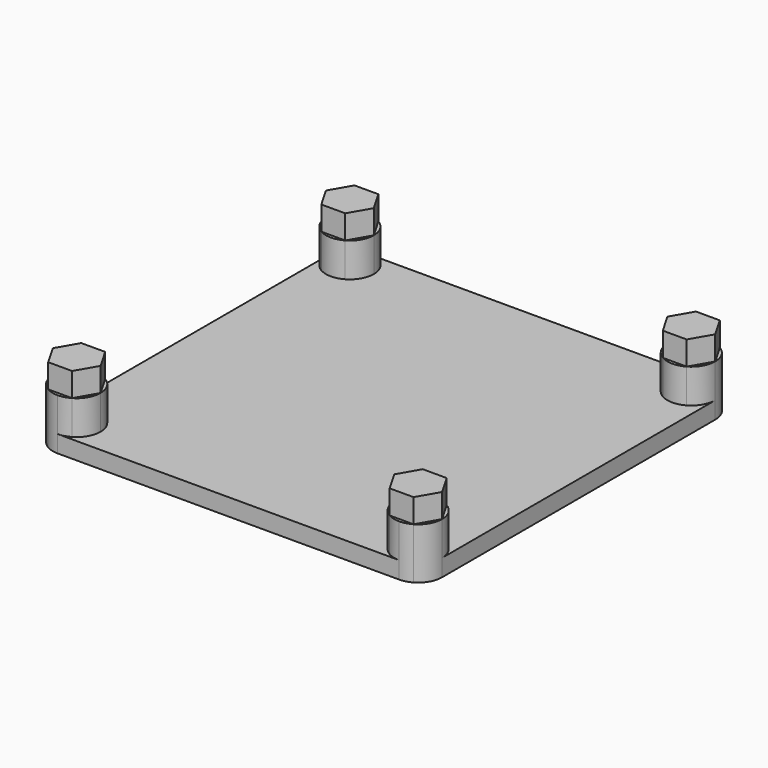
from build123d import *

# Parameters (mm, degrees)
F1_DEPTH = 5
F2_DEPTH = 15
F3_DEPTH = 22


with BuildPart() as f1:
    # F0 (on Top) → F1 (new body)
    with BuildSketch(Plane.XY):
        with BuildLine():
            ThreePointArc((-49.4411764706, 56.0621778265), (-46.8789986441, 53.5), (-45.9411764706, 50))
            ThreePointArc((-45.9411764706, 50), (-46.8789986441, 46.5), (-49.4411764706, 43.9378221735))
            ThreePointArc((-49.4411764706, 43.9378221735), (-52.9411764706, 43), (-56.4411764706, 43.9378221735))
            ThreePointArc((-56.4411764706, 43.9378221735), (-59.0033542971, 46.5), (-59.9411764706, 50))
            Line((-59.9411764706, 50), (-59.9411764706, -50))
            ThreePointArc((-59.9411764706, -50), (-59.0033542971, -46.5), (-56.4411764706, -43.9378221735))
            ThreePointArc((-56.4411764706, -43.9378221735), (-52.9411764706, -43), (-49.4411764706, -43.9378221735))
            ThreePointArc((-49.4411764706, -43.9378221735), (-46.8789986441, -46.5), (-45.9411764706, -50))
            ThreePointArc((-45.9411764706, -50), (-46.8789986441, -53.5), (-49.4411764706, -56.0621778265))
            ThreePointArc((-49.4411764706, -56.0621778265), (-51.1294431549, -56.761480784), (-52.9411764706, -57))
            Line((-52.9411764706, -57), (47.0588235294, -57))
            ThreePointArc((47.0588235294, -57), (45.2470902137, -56.761480784), (43.5588235294, -56.0621778265))
            ThreePointArc((43.5588235294, -56.0621778265), (40.9966457029, -53.5), (40.0588235294, -50))
            ThreePointArc((40.0588235294, -50), (40.9966457029, -46.5), (43.5588235294, -43.9378221735))
            ThreePointArc((43.5588235294, -43.9378221735), (47.0588235294, -43), (50.5588235294, -43.9378221735))
            ThreePointArc((50.5588235294, -43.9378221735), (53.1210013559, -46.5), (54.0588235294, -50))
            Line((54.0588235294, -50), (54.0588235294, 50))
            ThreePointArc((54.0588235294, 50), (53.1210013559, 46.5), (50.5588235294, 43.9378221735))
            ThreePointArc((50.5588235294, 43.9378221735), (47.0588235294, 43), (43.5588235294, 43.9378221735))
            ThreePointArc((43.5588235294, 43.9378221735), (40.9966457029, 46.5), (40.0588235294, 50))
            ThreePointArc((40.0588235294, 50), (40.9966457029, 53.5), (43.5588235294, 56.0621778265))
            ThreePointArc((43.5588235294, 56.0621778265), (45.2470902137, 56.761480784), (47.0588235294, 57))
            Line((47.0588235294, 57), (-52.9411764706, 57))
            ThreePointArc((-52.9411764706, 57), (-51.1294431549, 56.761480784), (-49.4411764706, 56.0621778265))
        make_face()
    extrude(amount=F1_DEPTH)

    # F0 (on Top) → F2 (join)
    with BuildSketch(Plane.XY):
        Polygon((-49.4411764706, 43.9378221735), (-45.9411764706, 50), (-49.4411764706, 56.0621778265), (-56.4411764706, 56.0621778265), (-59.9411764706, 50), (-56.4411764706, 43.9378221735), align=None)
        Polygon((50.5588235294, -56.0621778265), (54.0588235294, -50), (50.5588235294, -43.9378221735), (43.5588235294, -43.9378221735), (40.0588235294, -50), (43.5588235294, -56.0621778265), align=None)
        Polygon((-56.4411764706, -43.9378221735), (-59.9411764706, -50), (-56.4411764706, -56.0621778265), (-49.4411764706, -56.0621778265), (-45.9411764706, -50), (-49.4411764706, -43.9378221735), align=None)
        with BuildLine():
            ThreePointArc((50.5588235294, -56.0621778265), (53.1210013559, -53.5), (54.0588235294, -50))
            Line((54.0588235294, -50), (50.5588235294, -56.0621778265))
        make_face()
        with BuildLine():
            Line((43.5588235294, -43.9378221735), (50.5588235294, -43.9378221735))
            ThreePointArc((50.5588235294, -43.9378221735), (47.0588235294, -43), (43.5588235294, -43.9378221735))
        make_face()
        with BuildLine():
            Line((40.0588235294, -50), (43.5588235294, -43.9378221735))
            ThreePointArc((43.5588235294, -43.9378221735), (40.9966457029, -46.5), (40.0588235294, -50))
        make_face()
        with BuildLine():
            ThreePointArc((40.0588235294, -50), (40.9966457029, -53.5), (43.5588235294, -56.0621778265))
            Line((43.5588235294, -56.0621778265), (40.0588235294, -50))
        make_face()
        with BuildLine():
            ThreePointArc((-45.9411764706, -50), (-46.8789986441, -46.5), (-49.4411764706, -43.9378221735))
            Line((-49.4411764706, -43.9378221735), (-45.9411764706, -50))
        make_face()
        with BuildLine():
            ThreePointArc((-49.4411764706, -43.9378221735), (-52.9411764706, -43), (-56.4411764706, -43.9378221735))
            Line((-56.4411764706, -43.9378221735), (-49.4411764706, -43.9378221735))
        make_face()
        with BuildLine():
            Line((-45.9411764706, -50), (-49.4411764706, -56.0621778265))
            ThreePointArc((-49.4411764706, -56.0621778265), (-46.8789986441, -53.5), (-45.9411764706, -50))
        make_face()
        with BuildLine():
            ThreePointArc((-56.4411764706, -43.9378221735), (-59.0033542971, -46.5), (-59.9411764706, -50))
            Line((-59.9411764706, -50), (-56.4411764706, -43.9378221735))
        make_face()
        with BuildLine():
            Line((-49.4411764706, -56.0621778265), (-56.4411764706, -56.0621778265))
            ThreePointArc((-56.4411764706, -56.0621778265), (-54.7529097863, -56.761480784), (-52.9411764706, -57))
            ThreePointArc((-52.9411764706, -57), (-51.1294431549, -56.761480784), (-49.4411764706, -56.0621778265))
        make_face()
        with BuildLine():
            Line((-56.4411764706, -56.0621778265), (-59.9411764706, -50))
            ThreePointArc((-59.9411764706, -50), (-59.0033542971, -53.5), (-56.4411764706, -56.0621778265))
        make_face()
        with BuildLine():
            Line((-56.4411764706, 56.0621778265), (-49.4411764706, 56.0621778265))
            ThreePointArc((-49.4411764706, 56.0621778265), (-51.1294431549, 56.761480784), (-52.9411764706, 57))
            ThreePointArc((-52.9411764706, 57), (-54.7529097863, 56.761480784), (-56.4411764706, 56.0621778265))
        make_face()
        with BuildLine():
            Line((-49.4411764706, 56.0621778265), (-45.9411764706, 50))
            ThreePointArc((-45.9411764706, 50), (-46.8789986441, 53.5), (-49.4411764706, 56.0621778265))
        make_face()
        with BuildLine():
            ThreePointArc((-49.4411764706, 43.9378221735), (-46.8789986441, 46.5), (-45.9411764706, 50))
            Line((-45.9411764706, 50), (-49.4411764706, 43.9378221735))
        make_face()
        with BuildLine():
            Line((-59.9411764706, 50), (-56.4411764706, 56.0621778265))
            ThreePointArc((-56.4411764706, 56.0621778265), (-59.0033542971, 53.5), (-59.9411764706, 50))
        make_face()
        with BuildLine():
            ThreePointArc((-59.9411764706, 50), (-59.0033542971, 46.5), (-56.4411764706, 43.9378221735))
            Line((-56.4411764706, 43.9378221735), (-59.9411764706, 50))
        make_face()
        with BuildLine():
            ThreePointArc((-56.4411764706, 43.9378221735), (-52.9411764706, 43), (-49.4411764706, 43.9378221735))
            Line((-49.4411764706, 43.9378221735), (-56.4411764706, 43.9378221735))
        make_face()
        with BuildLine():
            ThreePointArc((50.5588235294, 56.0621778265), (48.8705568451, 56.761480784), (47.0588235294, 57))
            ThreePointArc((47.0588235294, 57), (45.2470902137, 56.761480784), (43.5588235294, 56.0621778265))
            Line((43.5588235294, 56.0621778265), (50.5588235294, 56.0621778265))
        make_face()
        with BuildLine():
            ThreePointArc((54.0588235294, 50), (53.1210013559, 53.5), (50.5588235294, 56.0621778265))
            Line((50.5588235294, 56.0621778265), (54.0588235294, 50))
        make_face()
        with BuildLine():
            ThreePointArc((50.5588235294, 43.9378221735), (53.1210013559, 46.5), (54.0588235294, 50))
            Line((54.0588235294, 50), (50.5588235294, 43.9378221735))
        make_face()
        with BuildLine():
            ThreePointArc((43.5588235294, 43.9378221735), (47.0588235294, 43), (50.5588235294, 43.9378221735))
            Line((50.5588235294, 43.9378221735), (43.5588235294, 43.9378221735))
        make_face()
        with BuildLine():
            Line((43.5588235294, 43.9378221735), (40.0588235294, 50))
            ThreePointArc((40.0588235294, 50), (40.9966457029, 46.5), (43.5588235294, 43.9378221735))
        make_face()
        with BuildLine():
            Line((40.0588235294, 50), (43.5588235294, 56.0621778265))
            ThreePointArc((43.5588235294, 56.0621778265), (40.9966457029, 53.5), (40.0588235294, 50))
        make_face()
        Polygon((54.0588235294, 50), (50.5588235294, 56.0621778265), (43.5588235294, 56.0621778265), (40.0588235294, 50), (43.5588235294, 43.9378221735), (50.5588235294, 43.9378221735), align=None)
        with BuildLine():
            ThreePointArc((47.0588235294, -57), (48.8705568451, -56.761480784), (50.5588235294, -56.0621778265))
            Line((50.5588235294, -56.0621778265), (43.5588235294, -56.0621778265))
            ThreePointArc((43.5588235294, -56.0621778265), (45.2470902137, -56.761480784), (47.0588235294, -57))
        make_face()
        with BuildLine():
            Line((50.5588235294, -43.9378221735), (54.0588235294, -50))
            ThreePointArc((54.0588235294, -50), (53.1210013559, -46.5), (50.5588235294, -43.9378221735))
        make_face()
    extrude(amount=F2_DEPTH)

    # F0 (on Top) → F3 (join)
    with BuildSketch(Plane.XY):
        Polygon((-49.4411764706, 43.9378221735), (-45.9411764706, 50), (-49.4411764706, 56.0621778265), (-56.4411764706, 56.0621778265), (-59.9411764706, 50), (-56.4411764706, 43.9378221735), align=None)
        Polygon((50.5588235294, -56.0621778265), (54.0588235294, -50), (50.5588235294, -43.9378221735), (43.5588235294, -43.9378221735), (40.0588235294, -50), (43.5588235294, -56.0621778265), align=None)
        Polygon((-56.4411764706, -43.9378221735), (-59.9411764706, -50), (-56.4411764706, -56.0621778265), (-49.4411764706, -56.0621778265), (-45.9411764706, -50), (-49.4411764706, -43.9378221735), align=None)
        Polygon((54.0588235294, 50), (50.5588235294, 56.0621778265), (43.5588235294, 56.0621778265), (40.0588235294, 50), (43.5588235294, 43.9378221735), (50.5588235294, 43.9378221735), align=None)
    extrude(amount=F3_DEPTH)


solid = f1.part
